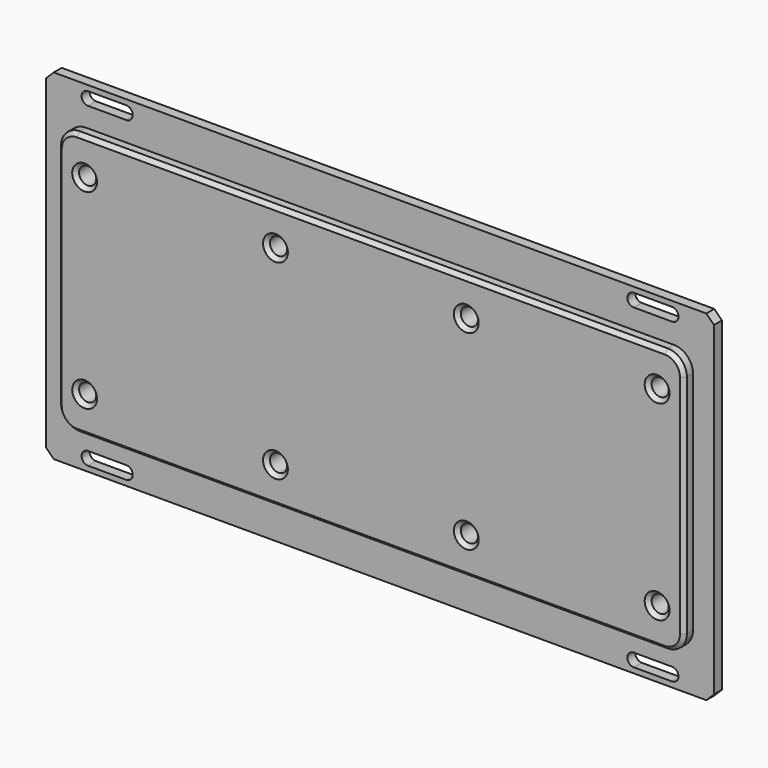
from build123d import *

# Parameters (mm, degrees)
SKETCH022_W     = 87.5
SKETCH022_H     = 89.2
PAD013_DEPTH    = 3
POCKET010_DEPTH = 5
CHAMFER013_SIZE = 2
SKETCH025_W     = 164
SKETCH025_H     = 69.2
PAD015_DEPTH    = 3
FILLET004_R     = 5
SKETCH026_R     = 2.25
POCKET011_DEPTH = 7
CHAMFER014_SIZE = 1
CHAMFER015_SIZE = 0.4


with BuildPart() as part:
    # Sketch022 (on XZ_Plane007 of Origin026) → Pad013 (new body)
    with BuildSketch(Plane.XZ):
        with Locations((43.75, 0)):
            Rectangle(SKETCH022_W, SKETCH022_H)
    extrude(amount=PAD013_DEPTH)

    # Sketch023 (on XZ_Plane007 of Origin026) → Pocket010 (cut)
    with BuildSketch(Plane.XZ):
        with BuildLine():
            ThreePointArc((76.5, 39.8), (78.2, 41.5), (76.5, 43.2))
            Line((76.5, 43.2), (66.5, 43.2))
            ThreePointArc((66.5, 43.2), (64.8, 41.5), (66.5, 39.8))
            Line((76.5, 39.8), (66.5, 39.8))
        make_face()
    pocket010 = extrude(amount=POCKET010_DEPTH, mode=Mode.SUBTRACT)

    # Mirrored008: Pocket010 across XY
    add(pocket010.mirror(Plane.XY), mode=Mode.SUBTRACT)

    # Mirrored009: part across YZ


with BuildPart() as part_1:
    add(part.part)
    add(part.part.mirror(Plane.YZ))

    # Chamfer013
    chamfer013_edges = [part_1.edges().sort_by_distance(p)[0] for p in [
        (-87.5, -1.5, 44.6),
        (-87.5, -1.5, -44.6),
        (87.5, -1.5, 44.6),
        (87.5, -1.5, -44.6),
    ]]
    chamfer(chamfer013_edges, length=CHAMFER013_SIZE)

    # Sketch025 → Pad015 (join)
    with BuildSketch(Plane.XZ.offset(3)):
        Rectangle(SKETCH025_W, SKETCH025_H)
    extrude(amount=PAD015_DEPTH)

    # Fillet004
    fillet004_edges = [part_1.edges().sort_by_distance(p)[0] for p in [
        (82, -4.5, 34.6),
        (82, -4.5, -34.6),
        (-82, -4.5, 34.6),
        (-82, -4.5, -34.6),
    ]]
    fillet(fillet004_edges, radius=FILLET004_R)

    # Sketch026 (on Face34 of Fillet004) → Pocket011 (cut)
    with BuildSketch(Plane.XZ.offset(6)):
        with Locations((-75, 25)):
            Circle(SKETCH026_R)
        with Locations((-25, 25)):
            Circle(SKETCH026_R)
        with Locations((25, 25)):
            Circle(SKETCH026_R)
        with Locations((75, 25)):
            Circle(SKETCH026_R)
        with Locations((75, -25)):
            Circle(SKETCH026_R)
        with Locations((25, -25)):
            Circle(SKETCH026_R)
        with Locations((-25, -25)):
            Circle(SKETCH026_R)
        with Locations((-75, -25)):
            Circle(SKETCH026_R)
    extrude(amount=-POCKET011_DEPTH, mode=Mode.SUBTRACT)

    # Chamfer014
    chamfer014_edges = [part_1.edges().sort_by_distance(p)[0] for p in [
        (0, -6, -34.6),
        (-80.535534, -6, -33.135534),
        (80.535534, -6, -33.135534),
        (-82, -6, 0),
        (82, -6, 0),
        (-80.535534, -6, 33.135534),
        (80.535534, -6, 33.135534),
        (0, -6, 34.6),
        (-77.25, -6, -25),
        (-27.25, -6, -25),
        (-77.25, -6, 25),
        (-27.25, -6, 25),
        (22.75, -6, -25),
        (72.75, -6, -25),
        (22.75, -6, 25),
        (72.75, -6, 25),
    ]]
    chamfer(chamfer014_edges, length=CHAMFER014_SIZE)

    # Chamfer015
    chamfer015_edges = [part_1.edges().sort_by_distance(p)[0] for p in [
        (0, 0, -44.6),
        (86.5, 0, -43.6),
        (-86.5, 0, -43.6),
        (87.5, 0, 0),
        (-87.5, 0, 0),
        (86.5, 0, 43.6),
        (-86.5, 0, 43.6),
        (0, 0, 44.6),
        (-78.2, 0, -41.5),
        (-71.5, 0, -39.8),
        (-71.5, 0, -43.2),
        (-64.8, 0, -41.5),
        (-77.25, 0, -25),
        (-27.25, 0, -25),
        (-77.25, 0, 25),
        (-71.5, 0, 39.8),
        (-78.2, 0, 41.5),
        (-64.8, 0, 41.5),
        (-71.5, 0, 43.2),
        (-27.25, 0, 25),
        (22.75, 0, -25),
        (78.2, 0, -41.5),
        (71.5, 0, -39.8),
        (71.5, 0, -43.2),
        (64.8, 0, -41.5),
        (72.75, 0, -25),
        (22.75, 0, 25),
        (72.75, 0, 25),
        (71.5, 0, 39.8),
        (78.2, 0, 41.5),
        (64.8, 0, 41.5),
        (71.5, 0, 43.2),
    ]]
    chamfer(chamfer015_edges, length=CHAMFER015_SIZE)


solid = part_1.part
